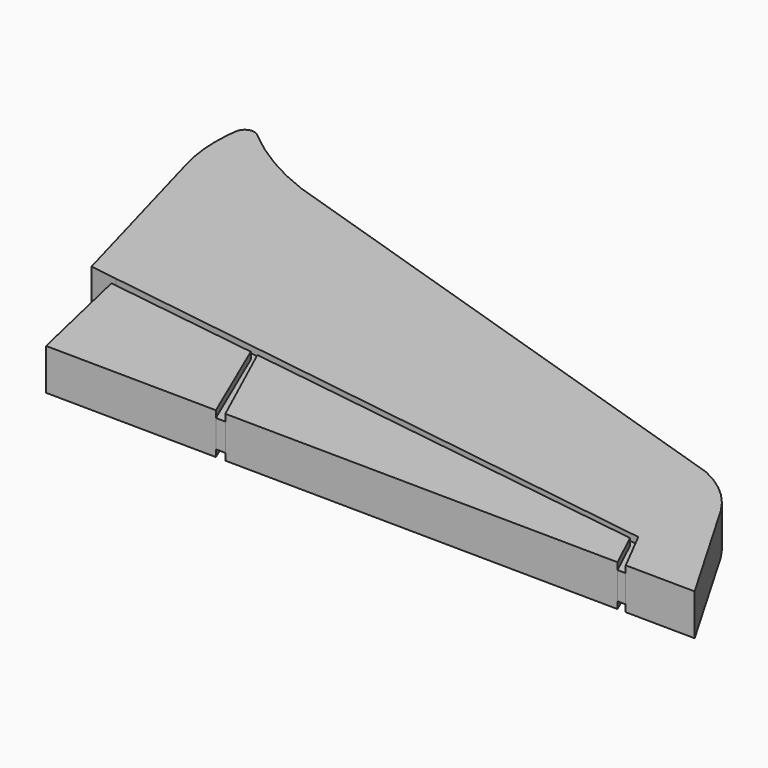
from build123d import *

# Parameters (mm, degrees)
F1_DEPTH      = 1.5
F1_DEPTH_BACK = 1.5
F2_DEPTH      = 1
F2_DEPTH_BACK = 1


with BuildPart() as f1:
    # F0 (on Top) → F1 (new body, two sides)
    with BuildSketch(Plane.XY) as f1_sk:
        with BuildLine():
            ThreePointArc((-37.5917032361, 10.284435004), (-37.6036541925, 10.2042280745), (-37.6150551658, 10.1239411223))
            ThreePointArc((-37.6150551658, 10.1239411223), (-36.9140789223, 9.3902881067), (-36.1911523713, 10.1023215633))
            ThreePointArc((-36.1911523713, 10.1023215633), (-36.2390172385, 10.3589917497), (-36.3761773631, 10.5811577471))
            ThreePointArc((-36.3761773631, 10.5811577471), (-36.444928714, 10.6395536611), (-36.5134240484, 10.6982496592))
            ThreePointArc((-36.5134240484, 10.6982496592), (-37.1584146425, 10.7671588816), (-37.5917032361, 10.284435004))
        make_face()
        with BuildLine():
            ThreePointArc((-37.6150551658, 10.1239411223), (-37.658727807, 9.7693120358), (-37.6916725948, 9.413525963))
            Line((-37.6916725948, 9.413525963), (-30.3237312473, 7.0269118533))
            ThreePointArc((-30.3237312473, 7.0269118533), (-33.5022351188, 8.5447191966), (-36.3761773631, 10.5811577471))
            ThreePointArc((-36.3761773631, 10.5811577471), (-36.2390172385, 10.3589917497), (-36.1911523713, 10.1023215633))
            ThreePointArc((-36.1911523713, 10.1023215633), (-36.9140789223, 9.3902881067), (-37.6150551658, 10.1239411223))
        make_face()
        with BuildLine():
            Line((-33.6302335127, -7.9102508416), (-31.6007956862, -8.2066003233))
            Line((-31.6007956862, -8.2066003233), (11.3807979287, -14.4830049639))
            Line((11.3807979287, -14.4830049639), (13.0020627939, -17.6492715746))
            Line((13.0020627939, -17.6492715746), (18.0582776666, -17.7091620862))
            Line((18.0582776666, -17.7091620862), (13.015336557, -9.0242120995))
            ThreePointArc((13.015336557, -9.0242120995), (11.4442463034, -7.1610379131), (9.3966493292, -5.8392628698))
            Line((9.3966493292, -5.8392628698), (-30.3237312473, 7.0269118533))
            Line((-30.3237312473, 7.0269118533), (-37.6916725948, 9.413525963))
            ThreePointArc((-37.6916725948, 9.413525963), (-37.7129517219, 7.9253137988), (-37.5472303476, 6.4462043799))
            ThreePointArc((-37.5472303476, 6.4462043799), (-37.4545060694, 5.9761457145), (-37.3428276399, 5.5102263341))
            Line((-37.3428276399, 5.5102263341), (-37.2520836129, 5.1822001342))
            Line((-37.2520836129, 5.1822001342), (-34.2308298218, -5.7391842553))
            Line((-34.2308298218, -5.7391842553), (-33.6302335127, -7.9102508416))
        make_face()
    extrude(amount=F1_DEPTH)
    extrude(f1_sk.sketch, amount=-F1_DEPTH_BACK)


with BuildPart() as f1b:
    # F0 (on Top) → F1, piece 2 (new body, two sides)
    with BuildSketch(Plane.XY) as f1_2_sk:
        Polygon((-31.4619966379, -8.8100739707), (-29.5448917896, -17.145305872), (-17.0812669576, -17.2929366368), (-20.0259792188, -10.4389979306), align=None)
    extrude(amount=F1_DEPTH)
    extrude(f1_2_sk.sketch, amount=-F1_DEPTH_BACK)


with BuildPart() as f1c:
    # F0 (on Top) → F1, piece 3 (new body, two sides)
    with BuildSketch(Plane.XY) as f1_3_sk:
        Polygon((-19.481760832, -10.5165153334), (-16.3864692258, -17.3011664673), (12.4006021974, -17.6421473158), (11.0948123038, -14.8717826232), align=None)
    extrude(amount=F1_DEPTH)
    extrude(f1_3_sk.sketch, amount=-F1_DEPTH_BACK)


with BuildPart() as f2:
    # F0 (on Top) → F2 (new body, two sides)
    with BuildSketch(Plane.XY) as f2_sk:
        Polygon((-20.0259792188, -10.4389979306), (-17.0812669576, -17.2929366368), (-16.3864692258, -17.3011664673), (-19.481760832, -10.5165153334), align=None)
        Polygon((-31.6007956862, -8.2066003233), (-31.4619966379, -8.8100739707), (-20.0259792188, -10.4389979306), (-19.481760832, -10.5165153334), (11.0948123038, -14.8717826232), (12.4006021974, -17.6421473158), (13.0020627939, -17.6492715746), (11.3807979287, -14.4830049639), align=None)
    extrude(amount=F2_DEPTH)
    extrude(f2_sk.sketch, amount=-F2_DEPTH_BACK)


solid = Compound([f1.part, f1b.part, f1c.part, f2.part])
